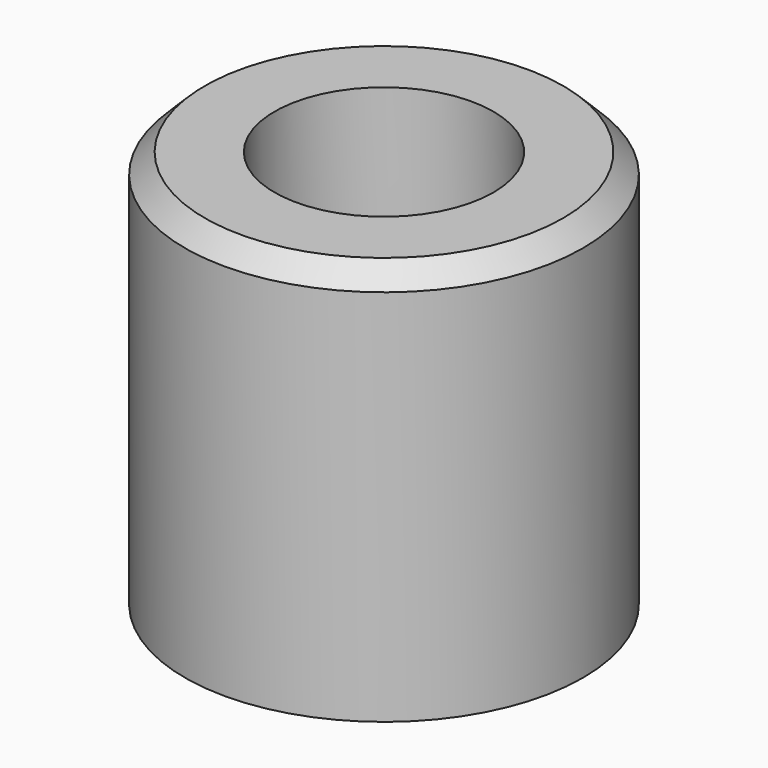
from build123d import *

# Parameters (mm, degrees)
F0_R           = 10
F1_DEPTH       = 20
F2_SIZE        = 1
F4_D           = 5.4
F4_CBORE_D     = 11
F4_CBORE_DEPTH = 5.8


with BuildPart() as f1:
    # F0 (on Top) → F1 (new body)
    with BuildSketch(Plane.XY):
        with Locations((-63.557699, 20.238634)):
            Circle(F0_R)
    extrude(amount=F1_DEPTH)

    # F2
    f2_edges = [f1.edges().sort_by_distance(p)[0] for p in [
        (-73.557699, 20.238634, 20),
    ]]
    chamfer(f2_edges, length=F2_SIZE)

    # F4 (through all)
    with Locations(Plane.XY.offset(20)):
        with Locations((-63.557699, 20.238634)):
            CounterBoreHole(F4_D / 2, F4_CBORE_D / 2, F4_CBORE_DEPTH)


solid = f1.part
